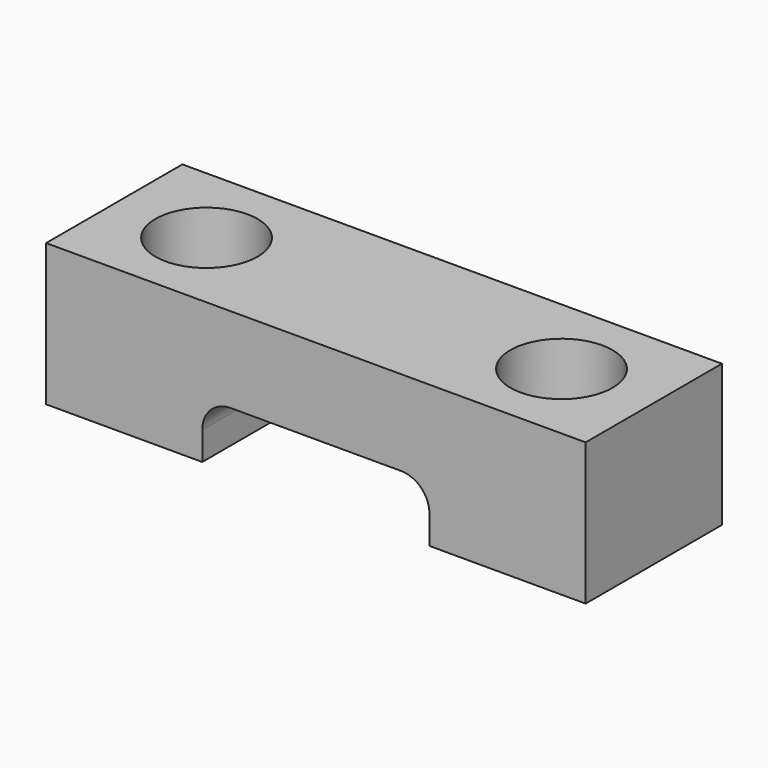
from build123d import *

# Parameters (mm, degrees)
F0_W     = 38
F0_H     = 12
F0_R     = 3.6
F1_DEPTH = 10
F2_W     = 16
F2_H     = 4
F3_DEPTH = 12.001
F4_R     = 2


with BuildPart() as f1:
    # F0 (on Top) → F1 (new body)
    with BuildSketch(Plane.XY):
        Rectangle(F0_W, F0_H)
        with Locations((-12.5, 0)):
            Circle(F0_R, mode=Mode.SUBTRACT)
        with Locations((12.5, 0)):
            Circle(F0_R, mode=Mode.SUBTRACT)
    extrude(amount=F1_DEPTH)

    # F2 (on face) → F3 (cut, through all)
    with BuildSketch(Plane.XZ.offset(6)):
        with Locations((0, 2)):
            Rectangle(F2_W, F2_H)
    extrude(amount=-F3_DEPTH, mode=Mode.SUBTRACT)

    # F4
    f4_edges = [f1.edges().sort_by_distance(p)[0] for p in [
        (-8, 0, 4),
        (8, 0, 4),
    ]]
    fillet(f4_edges, radius=F4_R)


solid = f1.part
